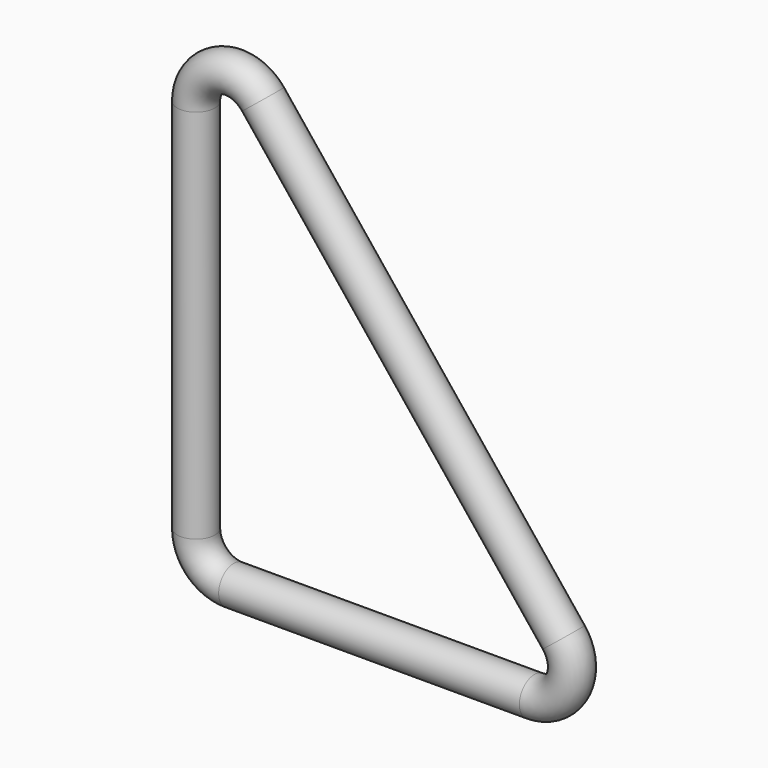
from build123d import *

# Parameters (mm, degrees)
F2_R = 2.5


with BuildPart() as f3:
    # F3: sweep along a path in F0
    with BuildLine(Plane.XZ) as f3_path:
        Line((45, 0), (5, 0))
        ThreePointArc((5, 0), (1.464466, 1.464466), (0, 5))
        Line((0, 5), (0, 55))
        ThreePointArc((0, 55), (3.344965, 59.718142), (8.904344, 58.123475))
        Line((8.904344, 58.123475), (48.904344, 8.123475))
        ThreePointArc((48.904344, 8.123475), (49.506516, 2.834056), (45, 0))
    # F2 (on offset) → F3 (sweep)
    with BuildSketch(Plane.YZ.offset(25)):
        Circle(F2_R)
    sweep(path=f3_path.line)


solid = f3.part
